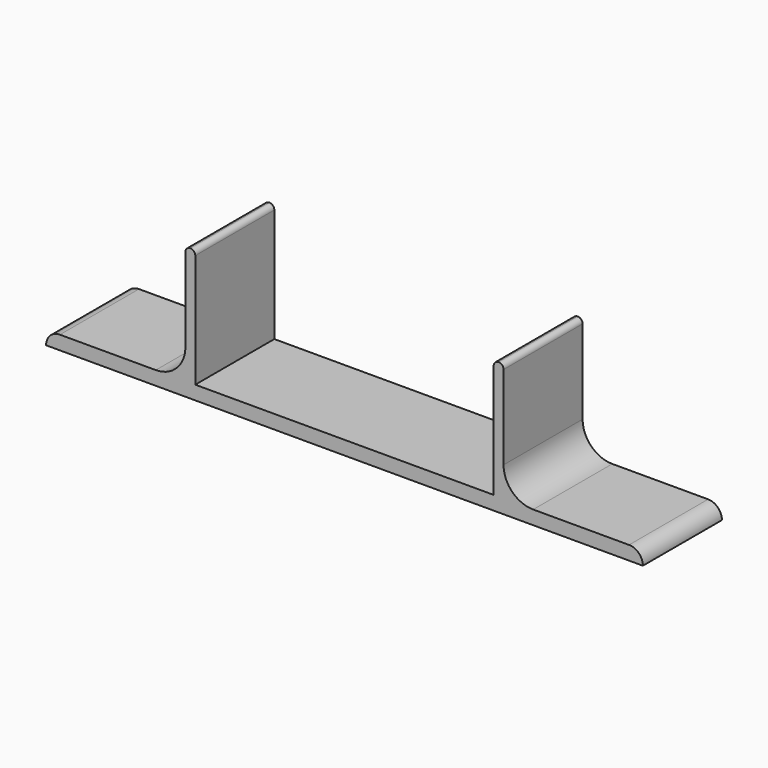
from build123d import *

# Parameters (mm, degrees)
F1_DEPTH = 10


with BuildPart() as f1:
    # F0 (on Front) → F1 (new body)
    with BuildSketch(Plane.XZ):
        with BuildLine():
            Line((-30.2, 0), (0, 0))
            Line((0, 0), (0, 1.4))
            Line((0, 1.4), (-15.1, 1.4))
            Line((-15.1, 1.4), (-15.1, 12.9))
            ThreePointArc((-15.1, 12.9), (-15.246447, 13.253553), (-15.6, 13.4))
            ThreePointArc((-15.6, 13.4), (-15.953553, 13.253553), (-16.1, 12.9))
            Line((-16.1, 12.9), (-16.1, 4.4))
            ThreePointArc((-16.1, 4.4), (-16.97868, 2.27868), (-19.1, 1.4))
            Line((-19.1, 1.4), (-28.8, 1.4))
            ThreePointArc((-28.8, 1.4), (-29.789949, 0.989949), (-30.2, 0))
        make_face()
        with BuildLine():
            Line((0, 1.4), (0, 0))
            Line((0, 0), (30.2, 0))
            ThreePointArc((30.2, 0), (29.789949, 0.989949), (28.8, 1.4))
            Line((28.8, 1.4), (19.1, 1.4))
            ThreePointArc((19.1, 1.4), (16.97868, 2.27868), (16.1, 4.4))
            Line((16.1, 4.4), (16.1, 12.9))
            ThreePointArc((16.1, 12.9), (15.953553, 13.253553), (15.6, 13.4))
            ThreePointArc((15.6, 13.4), (15.246447, 13.253553), (15.1, 12.9))
            Line((15.1, 12.9), (15.1, 1.4))
            Line((15.1, 1.4), (0, 1.4))
        make_face()
    extrude(amount=F1_DEPTH)


solid = f1.part
